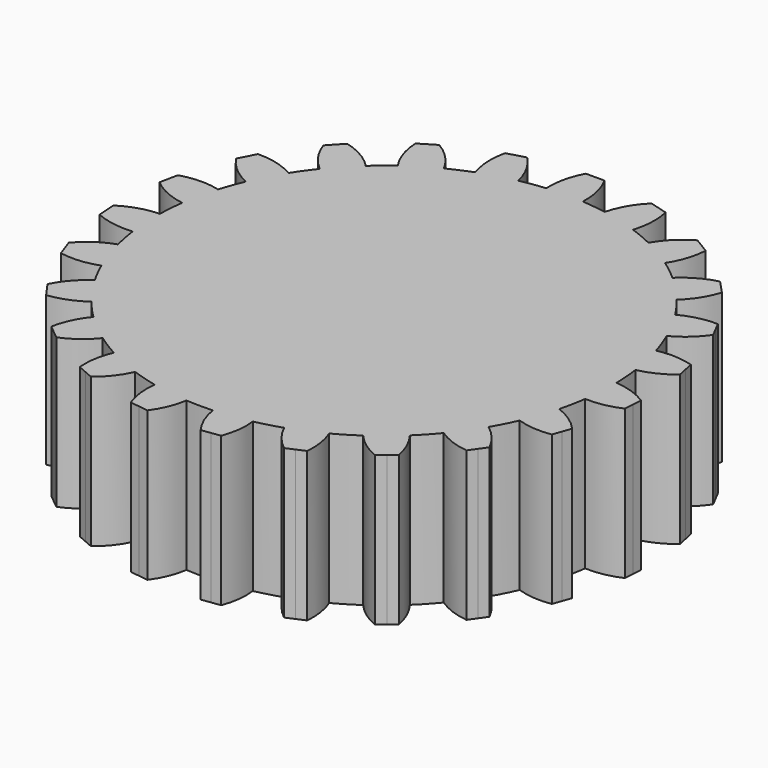
from build123d import *

# Parameters (mm, degrees)
F1_DEPTH = 25.4


with BuildPart() as f1:
    # F0 (on Top) → F1 (new body)
    with BuildSketch(Plane.XY):
        with BuildLine():
            ThreePointArc((32.727631, 21.027882), (31.509958, 22.812106), (30.195125, 24.525989))
            ThreePointArc((30.195125, 24.525989), (28.097608, 26.903421), (25.813456, 29.10215))
            ThreePointArc((25.813456, 29.10215), (24.132258, 30.510716), (22.374347, 31.822292))
            ThreePointArc((22.374347, 31.822292), (19.758786, 33.509104), (17.016748, 34.981423))
            ThreePointArc((17.016748, 34.981423), (15.067644, 35.864129), (13.072955, 36.638334))
            ThreePointArc((13.072955, 36.638334), (10.032541, 37.584808), (6.924902, 38.279438))
            ThreePointArc((6.924902, 38.279438), (4.869469, 38.594791), (2.800122, 38.799858))
            ThreePointArc((2.800122, 38.799858), (-0.292989, 38.899663), (-3.384245, 38.753278))
            ThreePointArc((-3.384245, 38.753278), (-5.530805, 38.505582), (-7.6603, 38.13908))
            ThreePointArc((-7.6603, 38.13908), (-10.678739, 37.406339), (-13.629096, 36.435112))
            ThreePointArc((-13.629096, 36.435112), (-15.62784, 35.623592), (-17.578527, 34.702522))
            ThreePointArc((-17.578527, 34.702522), (-20.279662, 33.19646), (-22.852623, 31.480586))
            ThreePointArc((-22.852623, 31.480586), (-24.53635, 30.186705), (-26.146967, 28.802878))
            ThreePointArc((-26.146967, 28.802878), (-28.350641, 26.636644), (-30.375422, 24.302334))
            ThreePointArc((-30.375422, 24.302334), (-31.679308, 22.57634), (-32.885238, 20.780539))
            ThreePointArc((-32.885238, 20.780539), (-34.432628, 18.101486), (-35.762224, 15.307939))
            ThreePointArc((-35.762224, 15.307939), (-36.558777, 13.293813), (-37.241997, 11.238475))
            ThreePointArc((-37.241997, 11.238475), (-38.011585, 8.26977), (-38.544918, 5.249665))
            ThreePointArc((-38.544918, 5.249665), (-38.777585, 3.093314), (-38.889712, 0.927347))
            ThreePointArc((-38.889712, 0.927347), (-38.839298, -2.185995), (-38.540043, -5.285331))
            ThreePointArc((-38.540043, -5.285331), (-38.197191, -7.365072), (-37.742194, -9.423189))
            ThreePointArc((-37.742194, -9.423189), (-36.822835, -12.543862), (-35.645937, -15.576804))
            ThreePointArc((-35.645937, -15.576804), (-34.736064, -17.512153), (-33.721211, -19.394576))
            ThreePointArc((-33.721211, -19.394576), (-32.069492, -22.018568), (-30.214042, -24.50268))
            ThreePointArc((-30.214042, -24.50268), (-28.774727, -26.177944), (-27.242655, -27.768821))
            ThreePointArc((-27.242655, -27.768821), (-24.938289, -29.855509), (-22.474656, -31.751528))
            ThreePointArc((-22.474656, -31.751528), (-20.619346, -32.986546), (-18.696351, -34.113284))
            ThreePointArc((-18.696351, -34.113284), (-15.912451, -35.497374), (-13.026912, -36.65473))
            ThreePointArc((-13.026912, -36.65473), (-10.889755, -37.345453), (-8.716297, -37.911685))
            ThreePointArc((-8.716297, -37.911685), (-5.661882, -38.486527), (-2.571325, -38.815692))
            ThreePointArc((-2.571325, -38.815692), (-0.311922, -38.899516), (1.948535, -38.851935))
            ThreePointArc((1.948535, -38.851935), (5.042543, -38.57256), (8.104392, -38.047188))
            ThreePointArc((8.104392, -38.047188), (10.311642, -37.509195), (12.483722, -36.843267))
            ThreePointArc((12.483722, -36.843267), (15.382759, -35.730105), (18.183768, -34.389246))
            ThreePointArc((18.183768, -34.389246), (20.164988, -33.266243), (22.077098, -32.029227))
            ThreePointArc((22.077098, -32.029227), (24.561273, -30.166431), (26.888966, -28.111442))
            ThreePointArc((26.888966, -28.111442), (28.487463, -26.490265), (29.988381, -24.778351))
            ThreePointArc((29.988381, -24.778351), (31.869393, -22.307206), (33.547287, -19.693887))
            ThreePointArc((33.547287, -19.693887), (34.638892, -17.703583), (35.612545, -15.652996))
            ThreePointArc((35.612545, -15.652996), (36.748128, -12.761063), (37.649303, -9.787731))
            ThreePointArc((37.649303, -9.787731), (38.153791, -7.586691), (38.529718, -5.360087))
            ThreePointArc((38.529718, -5.360087), (38.807894, -2.686457), (38.900767, 0))
            ThreePointArc((38.900767, 0), (38.898494, 0.420524), (38.891675, 0.840998))
            ThreePointArc((38.891675, 0.840998), (38.77859, 3.080681), (38.536635, 5.310126))
            ThreePointArc((38.536635, 5.310126), (37.989495, 8.37066), (37.199691, 11.377726))
            ThreePointArc((37.199691, 11.377726), (36.488316, 13.486011), (35.657562, 15.550174))
            ThreePointArc((35.657562, 15.550174), (34.302113, 18.347607), (32.727631, 21.027882))
        make_face()
        with BuildLine():
            ThreePointArc((25.813456, 29.10215), (28.097608, 26.903421), (30.195125, 24.525989))
            ThreePointArc((30.195125, 24.525989), (32.246607, 26.990627), (33.594685, 29.900215))
            Line((33.594685, 29.900215), (32.508244, 31.063509))
            Line((32.508244, 31.063509), (31.421803, 32.226804))
            ThreePointArc((31.421803, 32.226804), (28.411119, 31.035137), (25.813456, 29.10215))
        make_face()
        with BuildLine():
            ThreePointArc((38.829153, 22.484663), (35.684393, 22.149975), (32.727631, 21.027882))
            ThreePointArc((32.727631, 21.027882), (34.302113, 18.347607), (35.657562, 15.550174))
            ThreePointArc((35.657562, 15.550174), (38.237287, 17.308872), (40.293752, 19.658115))
            Line((40.293752, 19.658115), (39.561453, 21.071389))
            Line((39.561453, 21.071389), (38.829153, 22.484663))
        make_face()
        with BuildLine():
            ThreePointArc((17.016748, 34.981423), (19.758786, 33.509104), (22.374347, 31.822292))
            ThreePointArc((22.374347, 31.822292), (23.785008, 34.755405), (24.380752, 37.955124))
            Line((24.380752, 37.955124), (23.020746, 38.782162))
            Line((23.020746, 38.782162), (21.66074, 39.6092))
            ThreePointArc((21.66074, 39.6092), (19.026169, 37.608982), (17.016748, 34.981423))
        make_face()
        with BuildLine():
            ThreePointArc((43.33342, 11.105309), (40.283748, 11.628616), (37.199691, 11.377726))
            ThreePointArc((37.199691, 11.377726), (37.989495, 8.37066), (38.536635, 5.310126))
            ThreePointArc((38.536635, 5.310126), (41.425852, 6.309847), (43.981115, 7.988433))
            Line((43.981115, 7.988433), (43.657268, 9.546871))
            Line((43.657268, 9.546871), (43.33342, 11.105309))
        make_face()
        with BuildLine():
            ThreePointArc((6.924902, 38.279438), (10.032541, 37.584808), (13.072955, 36.638334))
            ThreePointArc((13.072955, 36.638334), (13.651595, 39.914068), (13.335307, 43.225445))
            Line((13.335307, 43.225445), (11.802602, 43.654889))
            Line((11.802602, 43.654889), (10.269897, 44.084333))
            ThreePointArc((10.269897, 44.084333), (8.196403, 41.412955), (6.924902, 38.279438))
        make_face()
        with BuildLine():
            ThreePointArc((44.600544, -1.067304), (41.864106, 0.239845), (38.891675, 0.840998))
            ThreePointArc((38.891675, 0.840998), (38.898494, 0.420524), (38.900767, 0))
            ThreePointArc((38.900767, 0), (38.807894, -2.686457), (38.529718, -5.360087))
            ThreePointArc((38.529718, -5.360087), (41.524847, -5.15993), (44.383297, -4.243345))
            Line((44.383297, -4.243345), (44.491921, -2.655324))
            Line((44.491921, -2.655324), (44.600544, -1.067304))
        make_face()
        with BuildLine():
            ThreePointArc((-3.384245, 38.753278), (-0.292989, 38.899663), (2.800122, 38.799858))
            ThreePointArc((2.800122, 38.799858), (2.48899, 42.165197), (1.277542, 45.320304))
            Line((1.277542, 45.320304), (-0.314188, 45.320304))
            Line((-0.314188, 45.320304), (-1.905919, 45.320304))
            ThreePointArc((-1.905919, 45.320304), (-3.100955, 42.139414), (-3.384245, 38.753278))
        make_face()
        with BuildLine():
            ThreePointArc((-13.629096, 36.435112), (-10.678739, 37.406339), (-7.6603, 38.13908))
            ThreePointArc((-7.6603, 38.13908), (-8.864125, 41.337817), (-10.898274, 44.084333))
            Line((-10.898274, 44.084333), (-12.430979, 43.654889))
            Line((-12.430979, 43.654889), (-13.963684, 43.225445))
            ThreePointArc((-13.963684, 43.225445), (-14.272658, 39.806811), (-13.629096, 36.435112))
        make_face()
        with BuildLine():
            ThreePointArc((42.536548, -13.13039), (40.296134, -11.161952), (37.649303, -9.787731))
            ThreePointArc((37.649303, -9.787731), (36.748128, -12.761063), (35.612545, -15.652996))
            ThreePointArc((35.612545, -15.652996), (38.512728, -16.24493), (41.470471, -16.130042))
            Line((41.470471, -16.130042), (42.003509, -14.630216))
            Line((42.003509, -14.630216), (42.536548, -13.13039))
        make_face()
        with BuildLine():
            ThreePointArc((-22.852623, 31.480586), (-20.279662, 33.19646), (-17.578527, 34.702522))
            ThreePointArc((-17.578527, 34.702522), (-19.589499, 37.486424), (-22.289117, 39.6092))
            Line((-22.289117, 39.6092), (-23.649122, 38.782162))
            Line((-23.649122, 38.782162), (-25.009128, 37.955124))
            ThreePointArc((-25.009128, 37.955124), (-24.386778, 34.566005), (-22.852623, 31.480586))
        make_face()
        with BuildLine():
            ThreePointArc((37.294508, -24.189285), (35.690922, -21.716502), (33.547287, -19.693887))
            ThreePointArc((33.547287, -19.693887), (31.869393, -22.307206), (29.988381, -24.778351))
            ThreePointArc((29.988381, -24.778351), (32.603195, -26.111416), (35.458669, -26.790077))
            Line((35.458669, -26.790077), (36.376588, -25.489681))
            Line((36.376588, -25.489681), (37.294508, -24.189285))
        make_face()
        with BuildLine():
            ThreePointArc((-30.375422, 24.302334), (-28.350641, 26.636644), (-26.146967, 28.802878))
            ThreePointArc((-26.146967, 28.802878), (-28.857476, 30.930518), (-32.05018, 32.226804))
            Line((-32.05018, 32.226804), (-33.136621, 31.063509))
            Line((-33.136621, 31.063509), (-34.223062, 29.900215))
            ThreePointArc((-34.223062, 29.900215), (-32.691519, 26.831647), (-30.375422, 24.302334))
        make_face()
        with BuildLine():
            ThreePointArc((29.263204, -33.4238), (28.393297, -30.62585), (26.888966, -28.111442))
            ThreePointArc((26.888966, -28.111442), (24.561273, -30.166431), (22.077098, -32.029227))
            ThreePointArc((22.077098, -32.029227), (24.232273, -34.012563), (26.793757, -35.432844))
            Line((26.793757, -35.432844), (28.02848, -34.428322))
            Line((28.02848, -34.428322), (29.263204, -33.4238))
        make_face()
        with BuildLine():
            ThreePointArc((-35.762224, 15.307939), (-34.432628, 18.101486), (-32.885238, 20.780539))
            ThreePointArc((-32.885238, 20.780539), (-36.052021, 22.092946), (-39.45753, 22.484663))
            Line((-39.45753, 22.484663), (-40.189829, 21.071389))
            Line((-40.189829, 21.071389), (-40.922129, 19.658115))
            ThreePointArc((-40.922129, 19.658115), (-38.64498, 17.12386), (-35.762224, 15.307939))
        make_face()
        with BuildLine():
            ThreePointArc((19.038279, -40.149054), (18.955201, -37.218089), (18.183768, -34.389246))
            ThreePointArc((18.183768, -34.389246), (15.382759, -35.730105), (12.483722, -36.843267))
            ThreePointArc((12.483722, -36.843267), (14.026781, -39.348245), (16.118372, -41.417349))
            Line((16.118372, -41.417349), (17.578326, -40.783202))
            Line((17.578326, -40.783202), (19.038279, -40.149054))
        make_face()
        with BuildLine():
            ThreePointArc((-38.544918, 5.249665), (-38.011585, 8.26977), (-37.241997, 11.238475))
            ThreePointArc((-37.241997, 11.238475), (-40.611127, 11.637632), (-43.961797, 11.105309))
            Line((-43.961797, 11.105309), (-44.285644, 9.546871))
            Line((-44.285644, 9.546871), (-44.609491, 7.988433))
            ThreePointArc((-44.609491, 7.988433), (-41.765065, 6.20306), (-38.544918, 5.249665))
        make_face()
        with BuildLine():
            ThreePointArc((7.378071, -43.866267), (8.091495, -41.000446), (8.104392, -38.047188))
            ThreePointArc((8.104392, -38.047188), (5.042543, -38.57256), (1.948535, -38.851935))
            ThreePointArc((1.948535, -38.851935), (2.75619, -41.71378), (4.22426, -44.299748))
            Line((4.22426, -44.299748), (5.801166, -44.083007))
            Line((5.801166, -44.083007), (7.378071, -43.866267))
        make_face()
        with BuildLine():
            ThreePointArc((-38.540043, -5.285331), (-38.839298, -2.185995), (-38.889712, 0.927347))
            ThreePointArc((-38.889712, 0.927347), (-42.19595, 0.364258), (-45.228921, -1.067304))
            Line((-45.228921, -1.067304), (-45.120297, -2.655324))
            Line((-45.120297, -2.655324), (-45.011674, -4.243345))
            ThreePointArc((-45.011674, -4.243345), (-41.846225, -5.201372), (-38.540043, -5.285331))
        make_face()
        with BuildLine():
            ThreePointArc((-4.852637, -44.299748), (-3.377512, -41.696856), (-2.571325, -38.815692))
            ThreePointArc((-2.571325, -38.815692), (-5.661882, -38.486527), (-8.716297, -37.911685))
            ThreePointArc((-8.716297, -37.911685), (-8.728137, -40.932698), (-8.006448, -43.866267))
            Line((-8.006448, -43.866267), (-6.429542, -44.083007))
            Line((-6.429542, -44.083007), (-4.852637, -44.299748))
        make_face()
        with BuildLine():
            ThreePointArc((-35.645937, -15.576804), (-36.822835, -12.543862), (-37.742194, -9.423189))
            ThreePointArc((-37.742194, -9.423189), (-40.704458, -10.909786), (-43.164924, -13.13039))
            Line((-43.164924, -13.13039), (-42.631886, -14.630216))
            Line((-42.631886, -14.630216), (-42.098848, -16.130042))
            ThreePointArc((-42.098848, -16.130042), (-38.835495, -16.283792), (-35.645937, -15.576804))
        make_face()
        with BuildLine():
            ThreePointArc((-16.746749, -41.417349), (-14.591142, -39.266987), (-13.026912, -36.65473))
            ThreePointArc((-13.026912, -36.65473), (-15.912451, -35.497374), (-18.696351, -34.113284))
            ThreePointArc((-18.696351, -34.113284), (-19.560722, -37.070206), (-19.666656, -40.149054))
            Line((-19.666656, -40.149054), (-18.206703, -40.783202))
            Line((-18.206703, -40.783202), (-16.746749, -41.417349))
        make_face()
        with BuildLine():
            ThreePointArc((-30.214042, -24.50268), (-32.069492, -22.018568), (-33.721211, -19.394576))
            ThreePointArc((-33.721211, -19.394576), (-36.136643, -21.516246), (-37.922885, -24.189285))
            Line((-37.922885, -24.189285), (-37.004965, -25.489681))
            Line((-37.004965, -25.489681), (-36.087045, -26.790077))
            ThreePointArc((-36.087045, -26.790077), (-33.002226, -26.027192), (-30.214042, -24.50268))
        make_face()
        with BuildLine():
            ThreePointArc((-27.422133, -35.432844), (-24.715011, -33.90584), (-22.474656, -31.751528))
            ThreePointArc((-22.474656, -31.751528), (-24.938289, -29.855509), (-27.242655, -27.768821))
            ThreePointArc((-27.242655, -27.768821), (-28.930301, -30.426187), (-29.89158, -33.4238))
            Line((-29.89158, -33.4238), (-28.656857, -34.428322))
            Line((-28.656857, -34.428322), (-27.422133, -35.432844))
        make_face()
    extrude(amount=F1_DEPTH)


solid = f1.part
